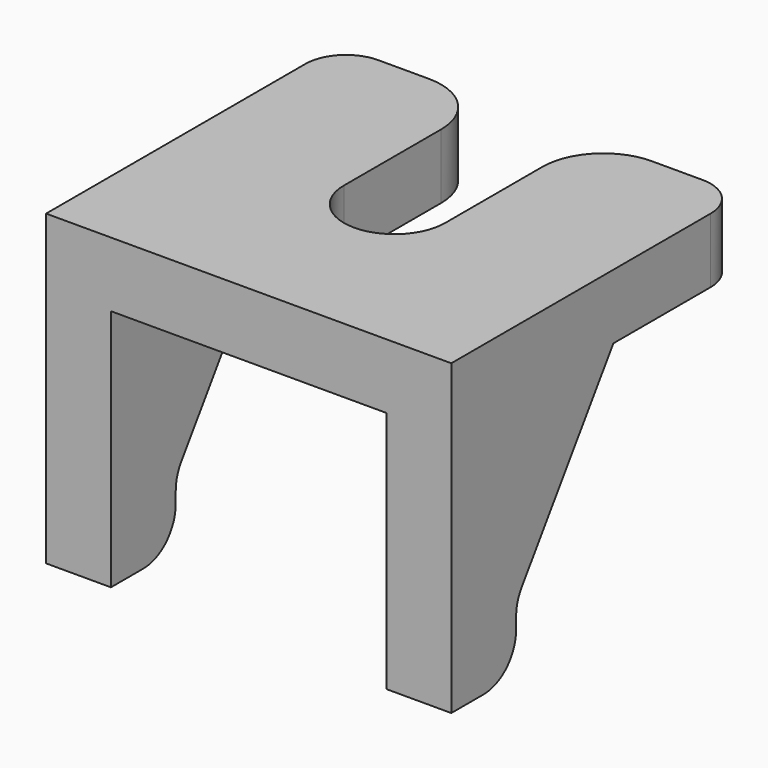
from build123d import *

# Parameters (mm, degrees)
PAD006_DEPTH            = 1.6
PAD007_DEPTH            = 1.6
LINEARPATTERN002_COUNT  = 2
LINEARPATTERN002_PITCH  = 8.4
FILLET008_R             = 1
FILLET009_R             = 1
FILLET010_R             = 1
FILLET011_R             = 1.5
BODY003_PLACEMENT_ANGLE = 90


with BuildPart() as part:
    # Sketch008 → Pad006 (new body)
    with BuildSketch(Plane.XY):
        with BuildLine():
            Line((-4.5, 5), (4.5, 5))
            Line((4.5, 5), (4.5, 1.25))
            Line((0, 1.25), (4.5, 1.25))
            ThreePointArc((0, 1.25), (-1.25, 0), (0, -1.25))
            Line((4.5, -1.25), (0, -1.25))
            Line((4.5, -1.25), (4.5, -5))
            Line((4.5, -5), (-4.5, -5))
            Line((-4.5, -5), (-4.5, 5))
        make_face()
    extrude(amount=PAD006_DEPTH)

    # Sketch009 (on DatumPlane) → Pad007 (join)
    with BuildSketch(Plane.XZ.offset(5)):
        Polygon((-4.5, 0), (-4.5, -6), (-2.5, -6), (-2.5, -4.4), (0.5, 0), align=None)
    pad007 = extrude(amount=-PAD007_DEPTH)

    # LinearPattern002: Pad007 ×2
    with Locations(*[(0, i * LINEARPATTERN002_PITCH, 0) for i in range(1, LINEARPATTERN002_COUNT)]):
        add(pad007)

    # Fillet008
    fillet008_edges = [part.edges().sort_by_distance(p)[0] for p in [
        (-2.5, -4.2, -6),
        (-2.5, 4.2, -6),
    ]]
    fillet(fillet008_edges, radius=FILLET008_R)

    # Fillet009
    fillet009_edges = [part.edges().sort_by_distance(p)[0] for p in [
        (-2.5, -4.2, -4.4),
        (-2.5, 4.2, -4.4),
    ]]
    fillet(fillet009_edges, radius=FILLET009_R)

    # Fillet010
    fillet010_edges = [part.edges().sort_by_distance(p)[0] for p in [
        (4.5, -5, 0.8),
        (4.5, 5, 0.8),
    ]]
    fillet(fillet010_edges, radius=FILLET010_R)

    # Fillet011
    fillet011_edges = [part.edges().sort_by_distance(p)[0] for p in [
        (4.5, -1.25, 0.8),
        (4.5, 1.25, 0.8),
    ]]
    fillet(fillet011_edges, radius=FILLET011_R)


with BuildPart() as part_1:
    # Body003 placement: moved
    add(part.part.moved(Location((-22.4, 32.5, 10.4))).rotate(Axis((-22.4, 32.5, 10.4), (0, 0, 1)), BODY003_PLACEMENT_ANGLE))


solid = part_1.part
